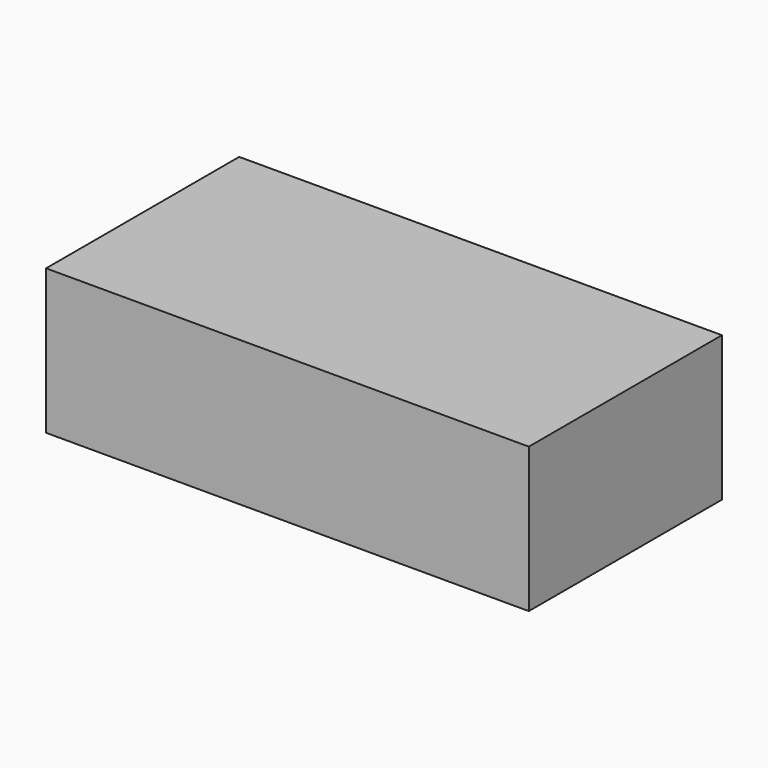
from build123d import *

# Parameters (mm, degrees)
F0_W     = 10000
F0_H     = 5000
F0_R     = 250
F1_DEPTH = 3000
F2_DEPTH = 300


with BuildPart() as f1:
    # F0 (on Top) → F1 (new body)
    with BuildSketch(Plane.XY):
        with Locations((-4838.713929, 2461.932909)):
            Rectangle(F0_W, F0_H)
        with Locations((-8298.715591, 2741.693735)):
            Circle(F0_R, mode=Mode.SUBTRACT)
        with Locations((-8298.715591, 2741.693735)):
            Circle(F0_R)
    extrude(amount=F1_DEPTH)

    # F0 (on Top) → F2 (cut)
    with BuildSketch(Plane.XY):
        with Locations((-8298.715591, 2741.693735)):
            Circle(F0_R)
    extrude(amount=F2_DEPTH, mode=Mode.SUBTRACT)


solid = f1.part
